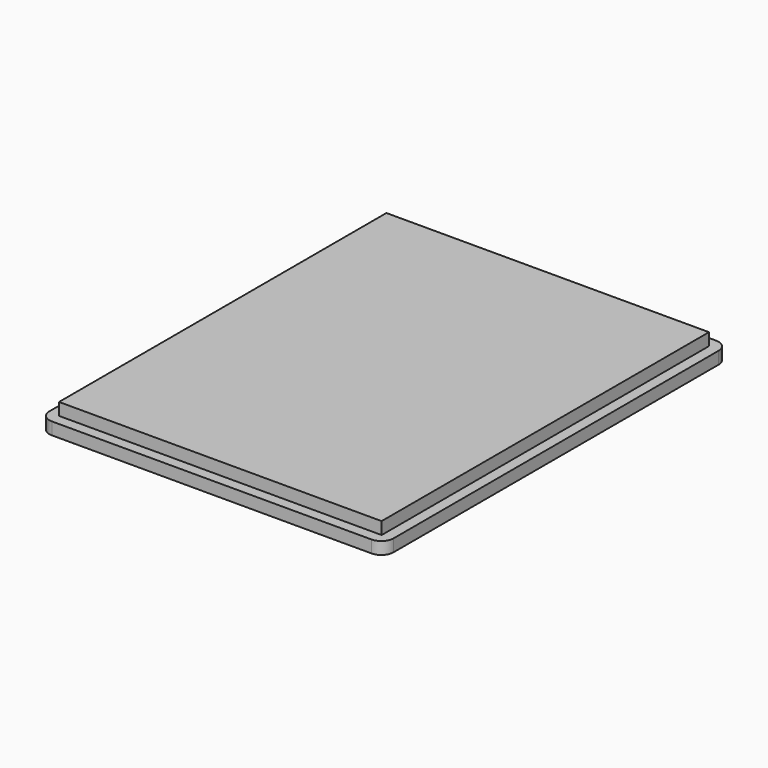
from build123d import *

# Parameters (mm, degrees)
F0_W     = 56.021
F0_H     = 70.122
F0_W_2   = 52.521
F0_H_2   = 66.622
F1_DEPTH = 2
F2_R     = 2
F3_DEPTH = 4


with BuildPart() as f1:
    # F0 (on Top) → F1 (new body)
    with BuildSketch(Plane.XY):
        with Locations((-9.772905, 4.139024)):
            Rectangle(F0_W, F0_H)
        with Locations((-9.772905, 4.139024)):
            Rectangle(F0_W_2, F0_H_2, mode=Mode.SUBTRACT)
    extrude(amount=F1_DEPTH)

    # F2
    f2_edges = [f1.edges().sort_by_distance(p)[0] for p in [
        (-37.783405, -30.921976, 1),
        (-37.783405, 39.200024, 1),
        (18.237595, 39.200024, 1),
        (18.237595, -30.921976, 1),
    ]]
    fillet(f2_edges, radius=F2_R)

    # F0 (on Top) → F3 (join)
    with BuildSketch(Plane.XY):
        with Locations((-9.772905, 4.139024)):
            Rectangle(F0_W_2, F0_H_2)
    extrude(amount=F3_DEPTH)


solid = f1.part
